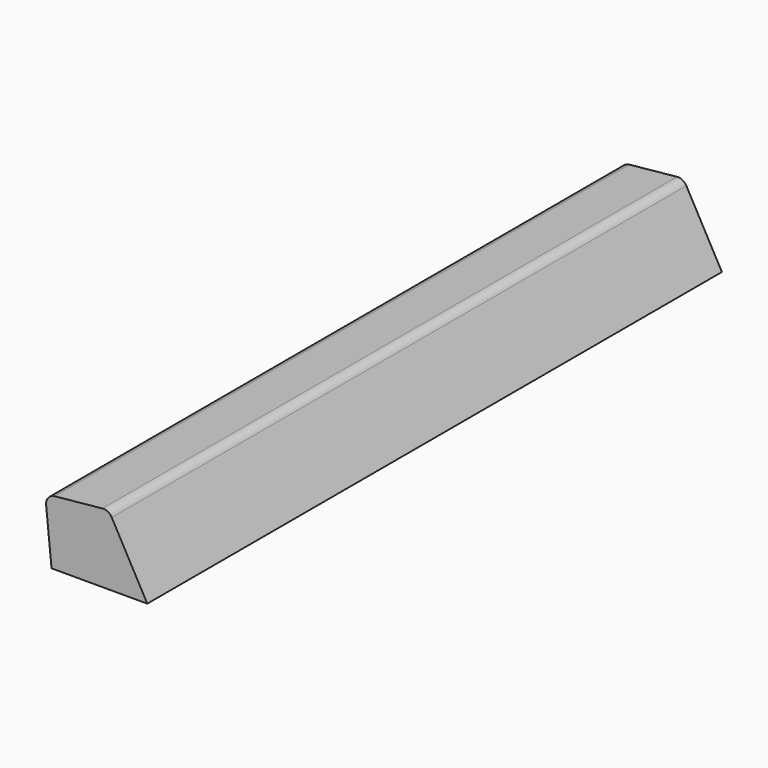
from build123d import *

# Parameters (mm, degrees)
F1_DEPTH = 45
F2_R     = 0.6


with BuildPart() as f1:
    # F0 (on Front) → F1 (new body)
    with BuildSketch(Plane.XZ):
        Polygon((2.034771, 4.105063), (2.432787, 0.124914), (8.432787, 0.126559), (6.01492, 4.503078), align=None)
    extrude(amount=F1_DEPTH)

    # F2
    f2_edges = [f1.edges().sort_by_distance(p)[0] for p in [
        (2.034771, -22.5, 4.105063),
        (6.01492, -22.5, 4.503078),
    ]]
    fillet(f2_edges, radius=F2_R)


solid = f1.part
